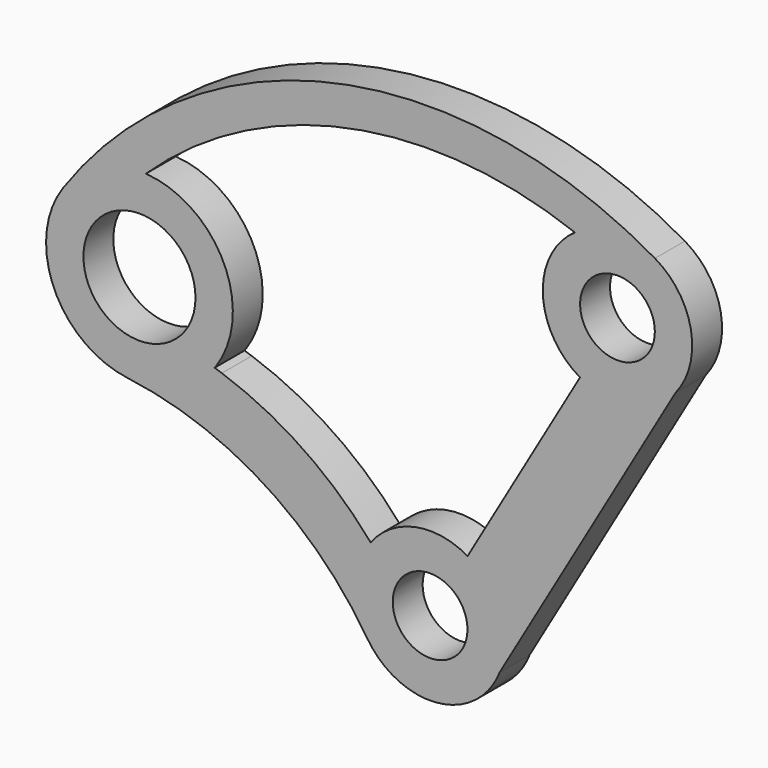
from build123d import *

# Parameters (mm, degrees)
F0_R     = 381
F0_R_2   = 254
F1_DEPTH = 254


with BuildPart() as f1:
    # F0 (on Front) → F1 (new body)
    with BuildSketch(Plane.XZ):
        with BuildLine():
            Line((473.011244, -185.268353), (395.707135, -318.559042))
            ThreePointArc((395.707135, -318.559042), (439.442269, -254.861712), (473.011244, -185.268353))
        make_face()
        with BuildLine():
            ThreePointArc((-2057.521233, 754.215362), (-1128.449023, 419.867707), (-427.052308, -275.11875))
            ThreePointArc((-427.052308, -275.11875), (-26.784225, -507.293411), (395.707135, -318.559042))
            Line((395.707135, -318.559042), (473.011244, -185.268353))
            Line((473.011244, -185.268353), (1670.015697, 1878.652302))
            ThreePointArc((1670.015697, 1878.652302), (1773.759714, 2290.015152), (1529.170274, 2636.653613))
            ThreePointArc((1529.170274, 2636.653613), (-656.791674, 2976.395252), (-2496.775431, 1748.260978))
            ThreePointArc((-2496.775431, 1748.260978), (-2557.434532, 1127.383803), (-2057.521233, 754.215362))
        make_face()
        with BuildLine():
            ThreePointArc((-208.064619, 145.688415), (76.379273, 242.244105), (254, 0))
            ThreePointArc((254, 0), (-76.379273, -242.244105), (-208.064619, 145.688415))
        make_face(mode=Mode.SUBTRACT)
        with Locations((-1976.613883, 1384.039941)):
            Circle(F0_R, mode=Mode.SUBTRACT)
        with BuildLine():
            ThreePointArc((-1932.873975, 2017.531709), (-560.209334, 2737.261679), (984.84457, 2614.673435))
            ThreePointArc((984.84457, 2614.673435), (766.722226, 2176.714723), (1019.44685, 1757.769075))
            Line((1019.44685, 1757.769075), (254.861712, 439.442269))
            ThreePointArc((254.861712, 439.442269), (-99.781003, 498.104157), (-404.463359, 307.365241))
            ThreePointArc((-404.463359, 307.365241), (-864.441016, 717.100965), (-1415.969091, 991.472231))
            ThreePointArc((-1415.969091, 991.472231), (-1440.535888, 999.695628), (-1465.1929, 1007.644433))
            ThreePointArc((-1465.1929, 1007.644433), (-1460.786699, 1013.705881), (-1456.452335, 1019.818904))
            ThreePointArc((-1456.452335, 1019.818904), (-1403.592135, 1657.665737), (-1932.873975, 2017.531709))
        make_face(mode=Mode.SUBTRACT)
        with Locations((1274.308562, 2197.211344)):
            Circle(F0_R_2, mode=Mode.SUBTRACT)
    extrude(amount=F1_DEPTH)


solid = f1.part
